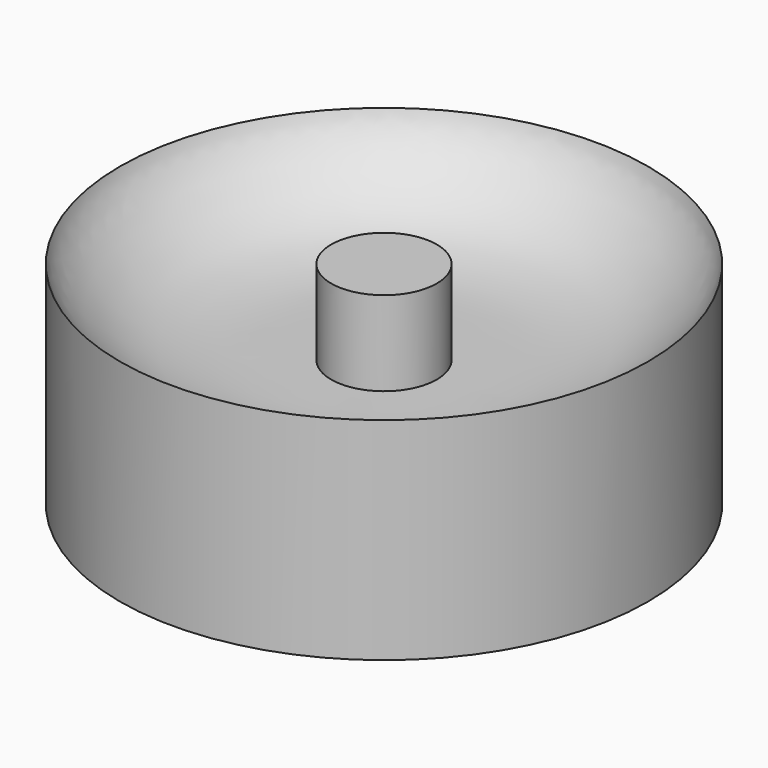
from build123d import *

# Parameters (mm, degrees)
F2_R     = 6.35
F3_DEPTH = 12.7


with BuildPart() as f1:
    # F0 (on Front) → F1 (revolve)
    with BuildSketch(Plane.XZ):
        with BuildLine():
            Line((31.75, -12.7), (31.75, 0))
            Line((31.75, 0), (31.75, 12.7))
            add(Edge.make_bspline(
                [(31.75, 12.7), (31.2511163445, 10.5233300527), (26.7481528072, 6.0570886726), (22.5025453307, 4.0263742854), (19.2678318468, 3.1833082093), (15.2337437975, 2.5414726038), (9.8611478235, 2.5350944238), (6.0884345974, 2.5365340992), (4.4264820156, 2.54)],
                knots=[0, 0, 0, 0, 0.2108234019, 0.3743688001, 0.5059960703, 0.6542927225, 0.8275498079, 1, 1, 1, 1], degree=3))
            Line((4.4264820156, 2.54), (0, 2.54))
            Line((0, 2.54), (0, -2.54))
            Line((0, -2.54), (4.4264820156, -2.54))
            add(Edge.make_bspline(
                [(31.75, -12.7), (31.2511163445, -10.5233300527), (26.7481528072, -6.0570886726), (22.5025453307, -4.0263742854), (19.2678318468, -3.1833082093), (15.2337437975, -2.5414726038), (9.8611478235, -2.5350944238), (6.0884345974, -2.5365340992), (4.4264820156, -2.54)],
                knots=[0, 0, 0, 0, 0.2108234019, 0.3743688001, 0.5059960703, 0.6542927225, 0.8275498079, 1, 1, 1, 1], degree=3))
        make_face()
    revolve(axis=Axis((0, 0, 0), (0, 0, 1)))

    # F2 (on Top) → F3 (join, symmetric)
    with BuildSketch(Plane.XY):
        Circle(F2_R)
    extrude(amount=F3_DEPTH, both=True)


solid = f1.part
